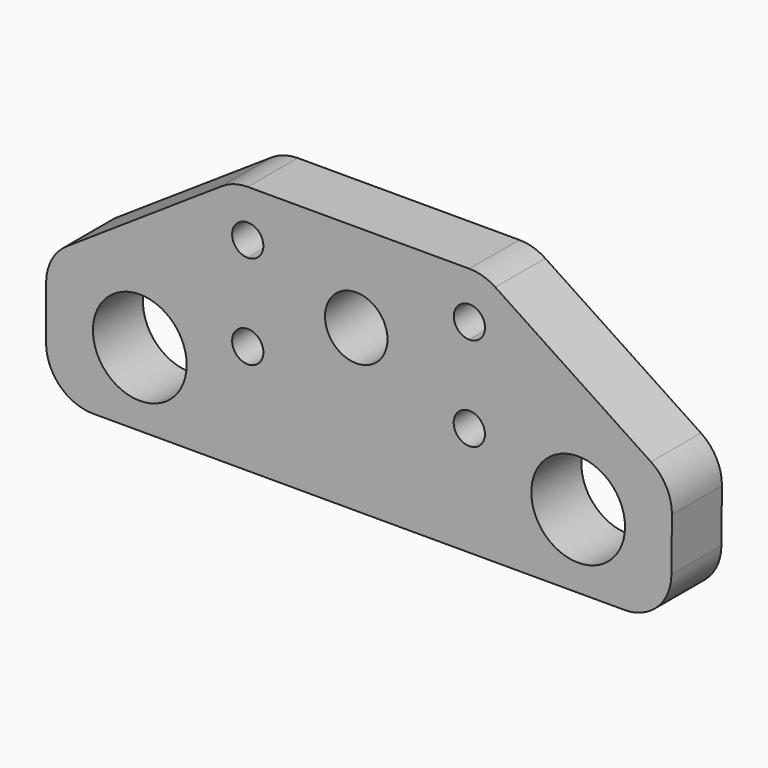
from build123d import *

# Parameters (mm, degrees)
F3_R     = 19.05
F4_DEPTH = 25.4


with BuildPart() as f4:
    # F3 (on Front) → F4 (new body)
    with BuildSketch(Plane.XZ):
        with BuildLine():
            ThreePointArc((0, 19.05), (5.579616, 5.579616), (19.05, 0))
            Line((19.05, 0), (235.130832, 0))
            ThreePointArc((235.130832, 0), (248.536825, 5.515531), (254.179965, 18.86831))
            Line((254.179965, 18.86831), (254.385811, 40.449988))
            ThreePointArc((254.385811, 40.449988), (252.162315, 49.564786), (245.857692, 56.512822))
            Line((245.857692, 56.512822), (182.583289, 98.431144))
            ThreePointArc((182.583289, 98.431144), (177.556212, 100.790591), (172.062274, 101.6))
            Line((172.062274, 101.6), (127, 101.6))
            Line((127, 101.6), (81.967876, 101.6))
            ThreePointArc((81.967876, 101.6), (76.447488, 100.782603), (71.400837, 98.400558))
            Line((71.400837, 98.400558), (8.482961, 56.455308))
            ThreePointArc((8.482961, 56.455308), (2.254099, 49.593643), (0, 40.604749))
            Line((0, 40.604749), (0, 19.05))
        make_face()
        with Locations((38.1, 29.827375)):
            Circle(F3_R, mode=Mode.SUBTRACT)
        with BuildLine():
            ThreePointArc((88.317876, 44.45), (77.477748, 39.959872), (81.967876, 50.8))
            ThreePointArc((81.967876, 50.8), (86.458004, 48.940128), (88.317876, 44.45))
        make_face(mode=Mode.SUBTRACT)
        with BuildLine():
            ThreePointArc((178.382124, 44.45), (167.541996, 39.959872), (172.032124, 50.8))
            ThreePointArc((172.032124, 50.8), (176.522252, 48.940128), (178.382124, 44.45))
        make_face(mode=Mode.SUBTRACT)
        with Locations((216.277108, 29.826619)):
            Circle(F3_R, mode=Mode.SUBTRACT)
        with BuildLine():
            ThreePointArc((138.767743, 65.500937), (116.76372, 56.856565), (127, 78.166675))
            ThreePointArc((127, 78.166675), (135.371765, 74.145309), (138.767743, 65.500937))
        make_face(mode=Mode.SUBTRACT)
        with BuildLine():
            ThreePointArc((88.317876, 82.55), (86.458004, 78.059872), (81.967876, 76.2))
            ThreePointArc((81.967876, 76.2), (77.477748, 87.040128), (88.317876, 82.55))
        make_face(mode=Mode.SUBTRACT)
        with BuildLine():
            ThreePointArc((178.412274, 82.55), (176.54173, 78.049225), (172.032124, 76.200072))
            ThreePointArc((172.032124, 76.200072), (167.582818, 87.050775), (178.412274, 82.55))
        make_face(mode=Mode.SUBTRACT)
    extrude(amount=F4_DEPTH)


solid = f4.part
